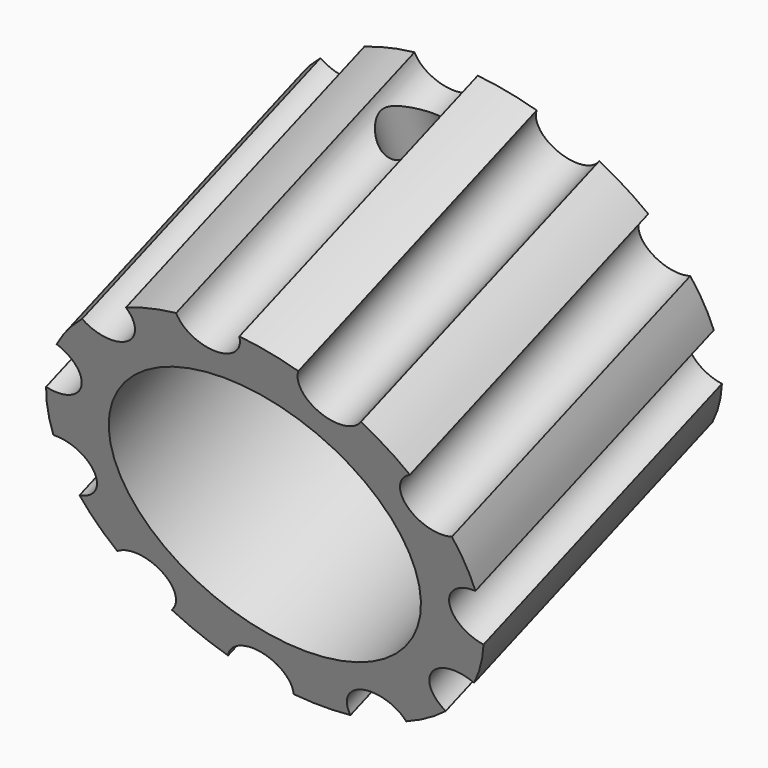
from build123d import *

# Parameters (mm, degrees)
CYLINDER003_R          = 1.7
CYLINDER003_DEPTH      = 18
CYLINDER003_ROLL_ANGLE = 90.0000000001
CYLINDER002_R          = 3.5
CYLINDER002_DEPTH      = 35
CYLINDER004_R          = 1.5
CYLINDER004_DEPTH      = 40
SKETCH_R               = 4
PAD_DEPTH              = 20
CYLINDER001_R          = 19
CYLINDER001_DEPTH      = 30
CYLINDER001_ROLL_ANGLE = 90.0000000001
CYLINDER_R             = 26.62
CYLINDER_DEPTH         = 40
CYLINDER_ROLL_ANGLE    = 90.0000000001
CUT002_ROLL_ANGLE      = -20


with BuildPart() as cilindro003:
    # Cylinder003 → Cylinder003 (new body)
    with BuildSketch(Plane.XY):
        Circle(CYLINDER003_R)
    extrude(amount=CYLINDER003_DEPTH)


with BuildPart() as cilindro003_1:
    # Cylinder003 roll: moved
    add(cilindro003.part.rotate(Axis((0, 0, 0), (1, 0, 0)), CYLINDER003_ROLL_ANGLE))


with BuildPart() as cilindro003_2:
    # Cylinder003 placement: moved
    add(cilindro003_1.part)


with BuildPart() as cilindro002:
    # Cylinder002 → Cylinder002 (new body)
    with BuildSketch(Plane(origin=(0, -13, 5), x_dir=(1, 0, 0), z_dir=(0, 0, 1))):
        Circle(CYLINDER002_R)
    extrude(amount=CYLINDER002_DEPTH)


with BuildPart() as fusion001:
    # Cylinder004 → Cylinder004 (new body)
    with BuildSketch(Plane(origin=(0, -13, 0), x_dir=(1, 0, 0), z_dir=(0, 0, 1))):
        Circle(CYLINDER004_R)
    extrude(amount=CYLINDER004_DEPTH)

    # Fusion001: union Cilindro003, Cilindro002
    add(cilindro003_2.part)
    add(cilindro002.part)


with BuildPart() as pad:
    # Sketch → Pad (new body, symmetric)
    with BuildSketch(Plane.XZ):
        with Locations((0, 26.6209914966)):
            Circle(SKETCH_R)
        with Locations((14.3923946042, 22.395003144)):
            Circle(SKETCH_R)
        with Locations((24.2153056134, 11.0587595287)):
            Circle(SKETCH_R)
        with Locations((26.3500281875, -3.7885620995)):
            Circle(SKETCH_R)
        with Locations((20.1188029925, -17.4330420298)):
            Circle(SKETCH_R)
        with Locations((7.5, -25.5426542917)):
            Circle(SKETCH_R)
        with Locations((-7.5, -25.5426542917)):
            Circle(SKETCH_R)
        with Locations((-26.3500281875, -3.7885620995)):
            Circle(SKETCH_R)
        with Locations((-24.2153056134, 11.0587595287)):
            Circle(SKETCH_R)
        with Locations((-14.3923946042, 22.395003144)):
            Circle(SKETCH_R)
        with Locations((-20.1188029925, -17.4330420298)):
            Circle(SKETCH_R)
    extrude(amount=PAD_DEPTH, both=True)


with BuildPart() as cilindro001:
    # Cylinder001 → Cylinder001 (new body)
    with BuildSketch(Plane.XY):
        Circle(CYLINDER001_R)
    extrude(amount=CYLINDER001_DEPTH)


with BuildPart() as cilindro001_1:
    # Cylinder001 roll: moved
    add(cilindro001.part.rotate(Axis((0, 0, 0), (1, 0, 0)), CYLINDER001_ROLL_ANGLE))


with BuildPart() as cilindro001_2:
    # Cylinder001 placement: moved
    add(cilindro001_1.part.moved(Location((0, 20, 0))))


with BuildPart() as cut002:
    # Cylinder → Cylinder (new body)
    with BuildSketch(Plane.XY):
        Circle(CYLINDER_R)
    extrude(amount=CYLINDER_DEPTH)


with BuildPart() as cut002_1:
    # Cylinder roll: moved
    add(cut002.part.rotate(Axis((0, 0, 0), (1, 0, 0)), CYLINDER_ROLL_ANGLE))


with BuildPart() as cut002_2:
    # Cylinder placement: moved
    add(cut002_1.part.moved(Location((0, 20, 0))))

    # Cut: cut Cilindro001
    add(cilindro001_2.part, mode=Mode.SUBTRACT)

    # Cut001: cut Pad
    add(pad.part, mode=Mode.SUBTRACT)

    # Cut002: cut Fusion001
    add(fusion001.part, mode=Mode.SUBTRACT)


with BuildPart() as cut002_3:
    # Cut002 roll: moved
    add(cut002_2.part.rotate(Axis((0, 0, 0), (1, 0, 0)), CUT002_ROLL_ANGLE))


with BuildPart() as cut002_4:
    # Cut002 placement: moved
    add(cut002_3.part)


with BuildPart() as part_mirroring008:
    # Part__Mirroring008: instance of Cut002
    add(cut002_4.part.mirror(Plane(origin=(0, 45, 0), x_dir=(1, 0, 0), z_dir=(0, 1, 0))))


solid = part_mirroring008.part
